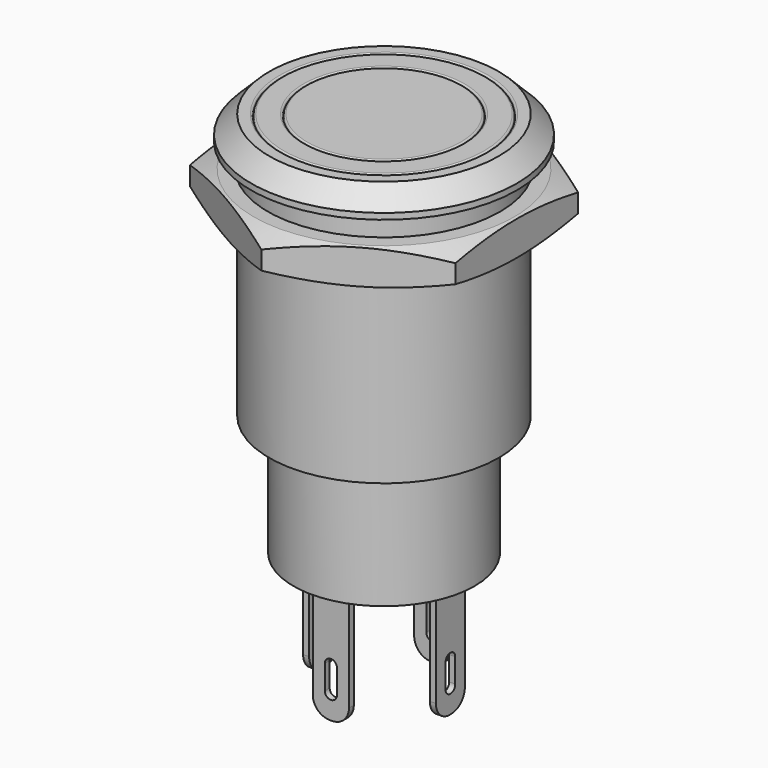
from build123d import *

# Parameters (mm, degrees)
FILLET_R        = 0.15
SKETCH002_W     = 3
SKETCH002_H     = 0.5
SKETCH002_W_2   = 0.5
SKETCH002_H_2   = 3
PAD_DEPTH       = 10
FILLET002_R     = 1.4
POCKET_DEPTH    = 16.501
POCKET001_DEPTH = 16.501
SKETCH001_W     = 1.9
SKETCH001_H     = 2
FILLET001_R     = 0.15
SKETCH006_R     = 9.625
PAD001_DEPTH    = 3


with BuildPart() as push_button_case:
    # Sketch → Revolution (revolve)
    with BuildSketch(Plane.XZ):
        Polygon((0, 22), (6.5, 22), (6.5, 20), (8.5, 20), (8.5, 22), (9.5, 22), (11, 20.5), (11, 20), (9.5, 20), (9.5, 0), (7.5, 0), (7.5, -10), (0, -10), (0, 0), align=None)
    revolve(axis=Axis((0, 0, 0), (0, 0, 1)))

    # Fillet
    fillet_edges = [push_button_case.edges().sort_by_distance(p)[0] for p in [
        (-6.5, 0, 22),
        (-8.5, 0, 22),
    ]]
    fillet(fillet_edges, radius=FILLET_R)

    # Sketch002 (on Face14 of Fillet) → Pad (new body)
    with BuildSketch(Plane(origin=(0, 0, -10), x_dir=(1, 0, 0), z_dir=(0, 0, -1))):
        with Locations((0, 5.25)):
            Rectangle(SKETCH002_W, SKETCH002_H)
        with Locations((5.25, 0)):
            Rectangle(SKETCH002_W_2, SKETCH002_H_2)
        with Locations((0, -5.25)):
            Rectangle(SKETCH002_W, SKETCH002_H)
        with Locations((-5.25, 0)):
            Rectangle(SKETCH002_W_2, SKETCH002_H_2)
    extrude(amount=PAD_DEPTH)

    # Fillet002
    fillet002_edges = [push_button_case.edges().sort_by_distance(p)[0] for p in [
        (-1.5, -5.25, -20),
        (1.5, -5.25, -20),
        (-5.25, -1.5, -20),
        (-5.25, 1.5, -20),
        (-1.5, 5.25, -20),
        (1.5, 5.25, -20),
        (5.25, 1.5, -20),
        (5.25, -1.5, -20),
    ]]
    fillet(fillet002_edges, radius=FILLET002_R)

    # Sketch003 (on Face15 of Fillet002) → Pocket (cut, through all)
    with BuildSketch(Plane(origin=(5.5, 0, 0), x_dir=(0, 0, 1), z_dir=(1, 0, 0))):
        with BuildLine():
            ThreePointArc((-18, 0.5), (-18.5, 0), (-18, -0.5))
            Line((-18, -0.5), (-16, -0.5))
            ThreePointArc((-16, -0.5), (-15.5, 0), (-16, 0.5))
            Line((-18, 0.5), (-16, 0.5))
        make_face()
    extrude(amount=-POCKET_DEPTH, mode=Mode.SUBTRACT)

    # Sketch005 (on Face16 of Pocket) → Pocket001 (cut, through all)
    with BuildSketch(Plane.XZ.offset(5.5)):
        with BuildLine():
            ThreePointArc((-0.5, -18), (0, -18.5), (0.5, -18))
            Line((0.5, -18), (0.5, -16))
            ThreePointArc((0.5, -16), (0, -15.5), (-0.5, -16))
            Line((-0.5, -18), (-0.5, -16))
        make_face()
    extrude(amount=-POCKET001_DEPTH, mode=Mode.SUBTRACT)


with BuildPart() as push_button_led:
    # Sketch001 → Revolution001 (revolve)
    with BuildSketch(Plane.XZ):
        with Locations((7.5, 21)):
            Rectangle(SKETCH001_W, SKETCH001_H)
    revolve(axis=Axis((0, 0, 0), (0, 0, 1)))

    # Fillet001
    fillet001_edges = [push_button_led.edges().sort_by_distance(p)[0] for p in [
        (-8.45, 0, 22),
        (-6.55, 0, 22),
    ]]
    fillet(fillet001_edges, radius=FILLET001_R)


with BuildPart() as push_button_nut:
    # Sketch006 → Pad001 (new body)
    with BuildSketch(Plane.XY):
        Polygon((0, 12.7), (-10.998523, 6.35), (-10.998523, -6.35), (0, -12.7), (10.998523, -6.35), (10.998523, 6.35), align=None)
        Circle(SKETCH006_R, mode=Mode.SUBTRACT)
    extrude(amount=PAD001_DEPTH)

    # Sketch007 → Groove (revolve, cut)
    with BuildSketch(Plane.YZ):
        Polygon((9.5, 3.5), (12.75, 2.25), (12.75, 0.75), (9.5, -0.5), (14.5, -0.5), (14.5, 3.5), align=None)
    revolve(axis=Axis((0, 0, 0), (0, 0, 1)), mode=Mode.SUBTRACT)


with BuildPart() as push_button_nut_1:
    # Body002 placement: moved
    add(push_button_nut.part.moved(Location((0, 0, 15))))


solid = Compound([push_button_case.part, push_button_led.part, push_button_nut_1.part])
